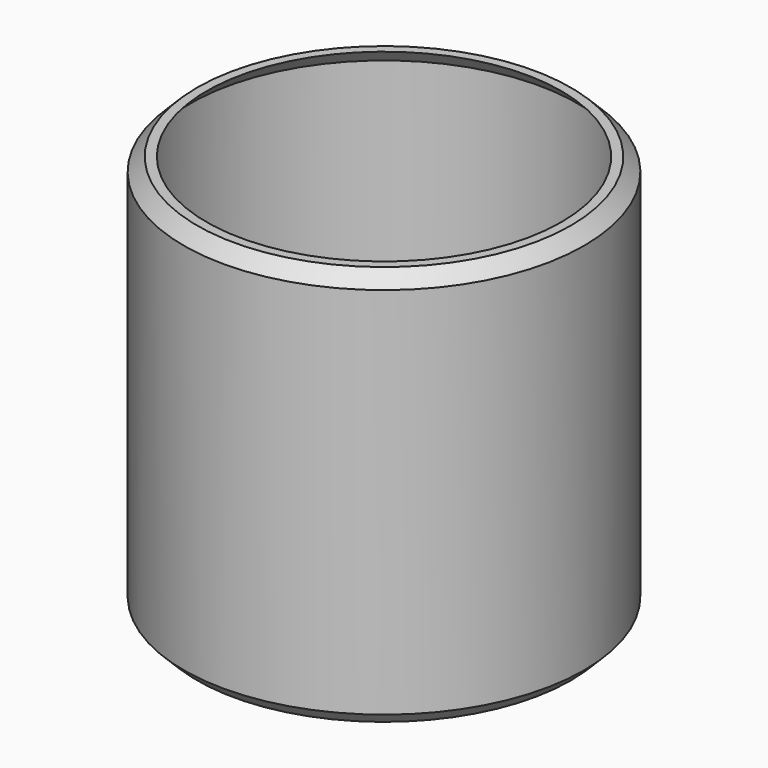
from build123d import *

# Parameters (mm, degrees)
F0_R     = 76.2
F1_DEPTH = 152.4
F2_SIZE  = 5.08
F3_T     = -2.54


with BuildPart() as f1:
    # F0 (on Top) → F1 (new body)
    with BuildSketch(Plane.XY):
        Circle(F0_R)
    extrude(amount=F1_DEPTH)

    # F2
    f2_edges = [f1.edges().sort_by_distance(p)[0] for p in [
        (-76.2, 0, 152.4),
        (76.2, 0, 76.2),
        (-76.2, 0, 0),
    ]]
    chamfer(f2_edges, length=F2_SIZE)

    # F3
    f3_openings = [f1.faces().sort_by_distance(p)[0] for p in [
        (0, 0, 152.4),
    ]]
    offset(amount=F3_T, openings=f3_openings)


solid = f1.part
